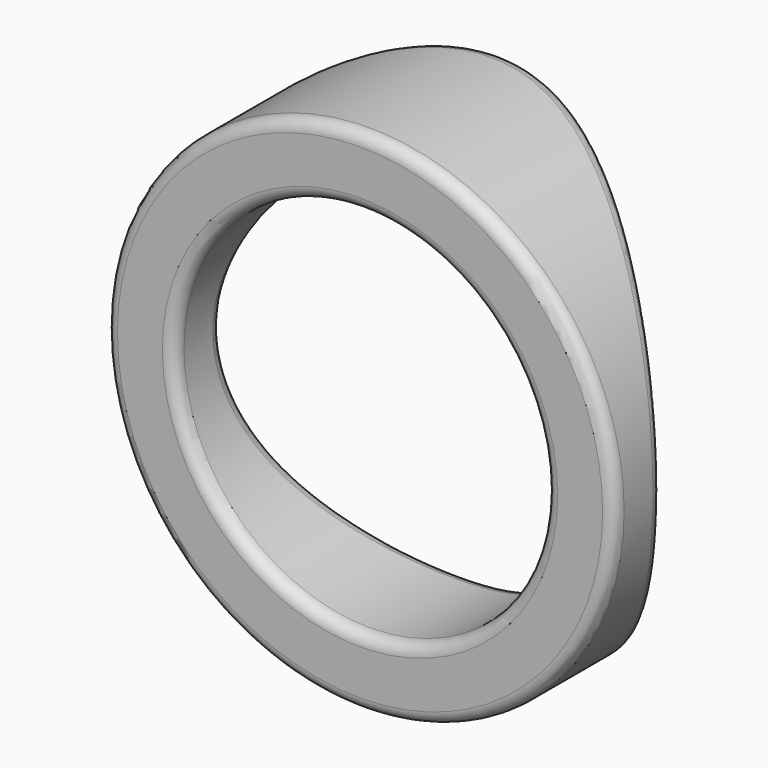
from build123d import *

# Parameters (mm, degrees)
F0_R     = 4.25
F0_R_2   = 3.1
F1_DEPTH = 5
F2_R     = 5
F3_DEPTH = 12.5
F4_R     = 0.2


with BuildPart() as f1:
    # F0 (on Front) → F1 (new body)
    with BuildSketch(Plane.XZ):
        Circle(F0_R)
        Circle(F0_R_2, mode=Mode.SUBTRACT)
    extrude(amount=-F1_DEPTH)

    # F2 (on Right) → F3 (cut, symmetric)
    with BuildSketch(Plane.YZ):
        with Locations((6, 0)):
            Circle(F2_R)
    extrude(amount=F3_DEPTH, both=True, mode=Mode.SUBTRACT)

    # F4
    f4_edges = [f1.edges().sort_by_distance(p)[0] for p in [
        (-4.25, 1, 0),
        (-3.1, 1, 0),
        (-3.1, 0, 0),
        (-4.25, 0, 0),
    ]]
    fillet(f4_edges, radius=F4_R)


solid = f1.part
